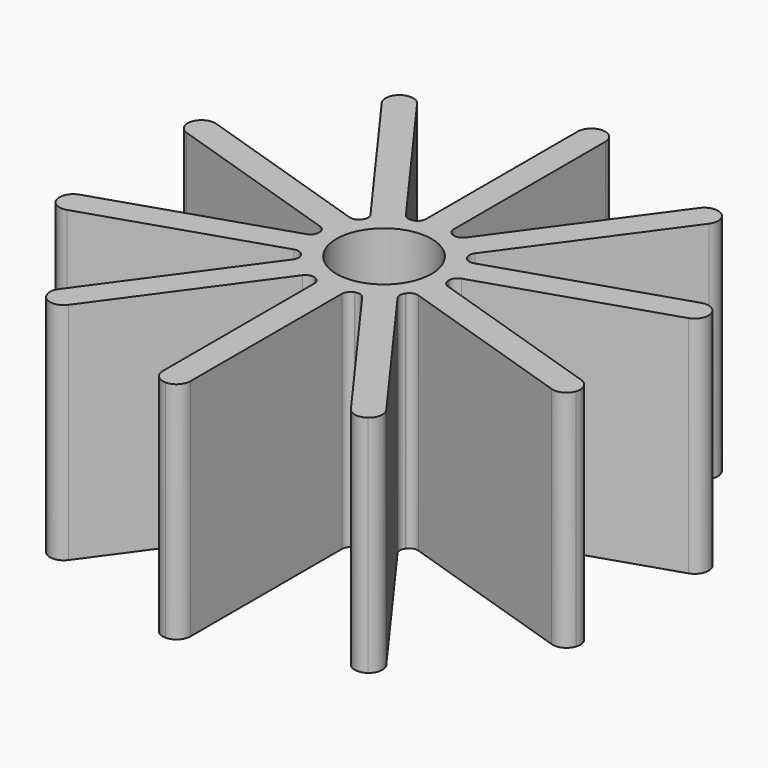
from build123d import *

# Parameters (mm, degrees)
F1_DEPTH = 33.02
F2_R     = 6.985
F3_DEPTH = 33.021
F4_R     = 1.27


with BuildPart() as f1:
    # F0 (on Top) → F1 (new body)
    with BuildSketch(Plane.XY):
        with BuildLine():
            Line((-2.032, 6.2538529475), (0, 3.4570448851))
            Line((0, 3.4570448851), (0, 9.525))
            ThreePointArc((0, 9.525), (-1.0218981804, 9.4700237122), (-2.032, 9.3057294717))
            Line((-2.032, 9.3057294717), (-2.032, 6.2538529475))
        make_face()
        with BuildLine():
            Line((0, 9.525), (0, 3.4570448851))
            Line((0, 3.4570448851), (2.032, 6.2538529475))
            Line((2.032, 6.2538529475), (2.032, 9.3057294717))
            ThreePointArc((2.032, 9.3057294717), (1.0218981804, 9.4700237122), (0, 9.525))
        make_face()
        with BuildLine():
            Line((-5.5986545281, 7.7058868714), (-2.032, 2.7968080624))
            Line((-2.032, 2.7968080624), (-2.032, 6.2538529475))
            Line((-2.032, 6.2538529475), (-3.8258480127, 8.7228729203))
            ThreePointArc((-3.8258480127, 8.7228729203), (-4.7396072824, 8.2620668001), (-5.5986545281, 7.7058868714))
        make_face()
        with BuildLine():
            Line((-5.3198450651, 3.8650936822), (-2.032, 2.7968080624))
            Line((-2.032, 2.7968080624), (-5.5986545281, 7.7058868714))
            ThreePointArc((-5.5986545281, 7.7058868714), (-6.3930732713, 7.0607534405), (-7.1136930778, 6.334113655))
            Line((-7.1136930778, 6.334113655), (-5.3198450651, 3.8650936822))
        make_face()
        with BuildLine():
            Line((-9.0588133177, 2.9433868714), (-3.2878450651, 1.0682856198))
            Line((-3.2878450651, 1.0682856198), (-5.3198450651, 3.8650936822))
            Line((-5.3198450651, 3.8650936822), (-8.2223521203, 4.8081753929))
            ThreePointArc((-8.2223521203, 4.8081753929), (-8.6907438566, 3.8982811877), (-9.0588133177, 2.9433868714))
        make_face()
        with BuildLine():
            Line((-6.5756901303, 0), (-3.2878450651, 1.0682856198))
            Line((-3.2878450651, 1.0682856198), (-9.0588133177, 2.9433868714))
            ThreePointArc((-9.0588133177, 2.9433868714), (-9.3223116652, 1.9545153407), (-9.4781971855, 0.9430817107))
            Line((-9.4781971855, 0.9430817107), (-6.5756901303, 0))
        make_face()
        with BuildLine():
            Line((-9.0588133177, -2.9433868714), (-3.2878450651, -1.0682856198))
            Line((-3.2878450651, -1.0682856198), (-6.5756901303, 0))
            Line((-6.5756901303, 0), (-9.4781971855, -0.9430817107))
            ThreePointArc((-9.4781971855, -0.9430817107), (-9.3223116652, -1.9545153407), (-9.0588133177, -2.9433868714))
        make_face()
        with BuildLine():
            Line((-5.3198450651, -3.8650936822), (-3.2878450651, -1.0682856198))
            Line((-3.2878450651, -1.0682856198), (-9.0588133177, -2.9433868714))
            ThreePointArc((-9.0588133177, -2.9433868714), (-8.6907438566, -3.8982811877), (-8.2223521203, -4.8081753929))
            Line((-8.2223521203, -4.8081753929), (-5.3198450651, -3.8650936822))
        make_face()
        with BuildLine():
            Line((-5.5986545281, -7.7058868714), (-2.032, -2.7968080624))
            Line((-2.032, -2.7968080624), (-5.3198450651, -3.8650936822))
            Line((-5.3198450651, -3.8650936822), (-7.1136930778, -6.334113655))
            ThreePointArc((-7.1136930778, -6.334113655), (-6.3930732713, -7.0607534405), (-5.5986545281, -7.7058868714))
        make_face()
        with BuildLine():
            Line((-2.032, -6.2538529475), (-2.032, -2.7968080624))
            Line((-2.032, -2.7968080624), (-5.5986545281, -7.7058868714))
            ThreePointArc((-5.5986545281, -7.7058868714), (-4.7396072824, -8.2620668001), (-3.8258480127, -8.7228729203))
            Line((-3.8258480127, -8.7228729203), (-2.032, -6.2538529475))
        make_face()
        with BuildLine():
            Line((0, -9.525), (0, -3.4570448851))
            Line((0, -3.4570448851), (-2.032, -6.2538529475))
            Line((-2.032, -6.2538529475), (-2.032, -9.3057294717))
            ThreePointArc((-2.032, -9.3057294717), (-1.0218981804, -9.4700237122), (0, -9.525))
        make_face()
        with BuildLine():
            Line((2.032, -6.2538529475), (0, -3.4570448851))
            Line((0, -3.4570448851), (0, -9.525))
            ThreePointArc((0, -9.525), (1.0218981804, -9.4700237122), (2.032, -9.3057294717))
            Line((2.032, -9.3057294717), (2.032, -6.2538529475))
        make_face()
        with BuildLine():
            Line((5.5986545281, -7.7058868714), (2.032, -2.7968080624))
            Line((2.032, -2.7968080624), (2.032, -6.2538529475))
            Line((2.032, -6.2538529475), (3.8258480127, -8.7228729203))
            ThreePointArc((3.8258480127, -8.7228729203), (4.7396072824, -8.2620668001), (5.5986545281, -7.7058868714))
        make_face()
        with BuildLine():
            Line((5.3198450651, -3.8650936822), (2.032, -2.7968080624))
            Line((2.032, -2.7968080624), (5.5986545281, -7.7058868714))
            ThreePointArc((5.5986545281, -7.7058868714), (6.3930732713, -7.0607534405), (7.1136930778, -6.334113655))
            Line((7.1136930778, -6.334113655), (5.3198450651, -3.8650936822))
        make_face()
        with BuildLine():
            Line((9.0588133177, -2.9433868714), (3.2878450651, -1.0682856198))
            Line((3.2878450651, -1.0682856198), (5.3198450651, -3.8650936822))
            Line((5.3198450651, -3.8650936822), (8.2223521203, -4.8081753929))
            ThreePointArc((8.2223521203, -4.8081753929), (8.6907438566, -3.8982811877), (9.0588133177, -2.9433868714))
        make_face()
        with BuildLine():
            Line((6.5756901303, 0), (3.2878450651, -1.0682856198))
            Line((3.2878450651, -1.0682856198), (9.0588133177, -2.9433868714))
            ThreePointArc((9.0588133177, -2.9433868714), (9.3223116652, -1.9545153407), (9.4781971855, -0.9430817107))
            Line((9.4781971855, -0.9430817107), (6.5756901303, 0))
        make_face()
        with BuildLine():
            Line((9.0588133177, 2.9433868714), (3.2878450651, 1.0682856198))
            Line((3.2878450651, 1.0682856198), (6.5756901303, 0))
            Line((6.5756901303, 0), (9.4781971855, 0.9430817107))
            ThreePointArc((9.4781971855, 0.9430817107), (9.3223116652, 1.9545153407), (9.0588133177, 2.9433868714))
        make_face()
        with BuildLine():
            Line((5.3198450651, 3.8650936822), (3.2878450651, 1.0682856198))
            Line((3.2878450651, 1.0682856198), (9.0588133177, 2.9433868714))
            ThreePointArc((9.0588133177, 2.9433868714), (8.6907438566, 3.8982811877), (8.2223521203, 4.8081753929))
            Line((8.2223521203, 4.8081753929), (5.3198450651, 3.8650936822))
        make_face()
        with BuildLine():
            Line((5.5986545281, 7.7058868714), (2.032, 2.7968080624))
            Line((2.032, 2.7968080624), (5.3198450651, 3.8650936822))
            Line((5.3198450651, 3.8650936822), (7.1136930778, 6.334113655))
            ThreePointArc((7.1136930778, 6.334113655), (6.3930732713, 7.0607534405), (5.5986545281, 7.7058868714))
        make_face()
        with BuildLine():
            Line((2.032, 6.2538529475), (2.032, 2.7968080624))
            Line((2.032, 2.7968080624), (5.5986545281, 7.7058868714))
            ThreePointArc((5.5986545281, 7.7058868714), (4.7396072824, 8.2620668001), (3.8258480127, 8.7228729203))
            Line((3.8258480127, 8.7228729203), (2.032, 6.2538529475))
        make_face()
        with BuildLine():
            ThreePointArc((-2.032, 9.3057294717), (-1.0218981804, 9.4700237122), (0, 9.525))
            Line((0, 9.525), (0, 40.132))
            ThreePointArc((0, 40.132), (-1.4368409794, 39.5368409794), (-2.032, 38.1))
            Line((-2.032, 38.1), (-2.032, 9.3057294717))
        make_face()
        with BuildLine():
            Line((0, 40.132), (0, 9.525))
            ThreePointArc((0, 9.525), (1.0218981804, 9.4700237122), (2.032, 9.3057294717))
            Line((2.032, 9.3057294717), (2.032, 38.1))
            ThreePointArc((2.032, 38.1), (1.4368409794, 39.5368409794), (0, 40.132))
        make_face()
        with BuildLine():
            Line((-3.8258480127, 8.7228729203), (-2.032, 6.2538529475))
            Line((-2.032, 6.2538529475), (-2.032, 9.3057294717))
            ThreePointArc((-2.032, 9.3057294717), (-2.9433868714, 9.0588133177), (-3.8258480127, 8.7228729203))
        make_face()
        with BuildLine():
            Line((2.032, 9.3057294717), (2.032, 6.2538529475))
            Line((2.032, 6.2538529475), (3.8258480127, 8.7228729203))
            ThreePointArc((3.8258480127, 8.7228729203), (2.9433868714, 9.0588133177), (2.032, 9.3057294717))
        make_face()
        with BuildLine():
            ThreePointArc((-7.1136930778, 6.334113655), (-6.3930732713, 7.0607534405), (-5.5986545281, 7.7058868714))
            Line((-5.5986545281, 7.7058868714), (-23.588997745, 32.4674700183))
            ThreePointArc((-23.588997745, 32.4674700183), (-24.4016008204, 31.1414223186), (-24.0385406449, 29.629167853))
            Line((-24.0385406449, 29.629167853), (-7.1136930778, 6.334113655))
        make_face()
        with BuildLine():
            Line((-23.588997745, 32.4674700183), (-5.5986545281, 7.7058868714))
            ThreePointArc((-5.5986545281, 7.7058868714), (-4.7396072824, 8.2620668001), (-3.8258480127, 8.7228729203))
            Line((-3.8258480127, 8.7228729203), (-20.7506955798, 32.0179271183))
            ThreePointArc((-20.7506955798, 32.0179271183), (-22.0767432794, 32.8305301938), (-23.588997745, 32.4674700183))
        make_face()
        with BuildLine():
            Line((-8.2223521203, 4.8081753929), (-5.3198450651, 3.8650936822))
            Line((-5.3198450651, 3.8650936822), (-7.1136930778, 6.334113655))
            ThreePointArc((-7.1136930778, 6.334113655), (-7.7058868714, 5.5986545281), (-8.2223521203, 4.8081753929))
        make_face()
        with BuildLine():
            ThreePointArc((-9.4781971855, 0.9430817107), (-9.3223116652, 1.9545153407), (-9.0588133177, 2.9433868714))
            Line((-9.0588133177, 2.9433868714), (-38.167800112, 12.4014700183))
            ThreePointArc((-38.167800112, 12.4014700183), (-38.045778528, 10.8510387902), (-36.8631758034, 9.8410006446))
            Line((-36.8631758034, 9.8410006446), (-9.4781971855, 0.9430817107))
        make_face()
        with BuildLine():
            Line((-38.167800112, 12.4014700183), (-9.0588133177, 2.9433868714))
            ThreePointArc((-9.0588133177, 2.9433868714), (-8.6907438566, 3.8982811877), (-8.2223521203, 4.8081753929))
            Line((-8.2223521203, 4.8081753929), (-35.6073307383, 13.7060943268))
            ThreePointArc((-35.6073307383, 13.7060943268), (-37.1577619663, 13.5840727428), (-38.167800112, 12.4014700183))
        make_face()
        with BuildLine():
            Line((-9.4781971855, -0.9430817107), (-6.5756901303, 0))
            Line((-6.5756901303, 0), (-9.4781971855, 0.9430817107))
            ThreePointArc((-9.4781971855, 0.9430817107), (-9.525, 0), (-9.4781971855, -0.9430817107))
        make_face()
        with BuildLine():
            ThreePointArc((-8.2223521203, -4.8081753929), (-8.6907438566, -3.8982811877), (-9.0588133177, -2.9433868714))
            Line((-9.0588133177, -2.9433868714), (-38.167800112, -12.4014700183))
            ThreePointArc((-38.167800112, -12.4014700183), (-37.1577619663, -13.5840727428), (-35.6073307383, -13.7060943268))
            Line((-35.6073307383, -13.7060943268), (-8.2223521203, -4.8081753929))
        make_face()
        with BuildLine():
            Line((-38.167800112, -12.4014700183), (-9.0588133177, -2.9433868714))
            ThreePointArc((-9.0588133177, -2.9433868714), (-9.3223116652, -1.9545153407), (-9.4781971855, -0.9430817107))
            Line((-9.4781971855, -0.9430817107), (-36.8631758034, -9.8410006446))
            ThreePointArc((-36.8631758034, -9.8410006446), (-38.045778528, -10.8510387902), (-38.167800112, -12.4014700183))
        make_face()
        with BuildLine():
            Line((-7.1136930778, -6.334113655), (-5.3198450651, -3.8650936822))
            Line((-5.3198450651, -3.8650936822), (-8.2223521203, -4.8081753929))
            ThreePointArc((-8.2223521203, -4.8081753929), (-7.7058868714, -5.5986545281), (-7.1136930778, -6.334113655))
        make_face()
        with BuildLine():
            ThreePointArc((-3.8258480127, -8.7228729203), (-4.7396072824, -8.2620668001), (-5.5986545281, -7.7058868714))
            Line((-5.5986545281, -7.7058868714), (-23.588997745, -32.4674700183))
            ThreePointArc((-23.588997745, -32.4674700183), (-22.0767432794, -32.8305301938), (-20.7506955798, -32.0179271183))
            Line((-20.7506955798, -32.0179271183), (-3.8258480127, -8.7228729203))
        make_face()
        with BuildLine():
            Line((-23.588997745, -32.4674700183), (-5.5986545281, -7.7058868714))
            ThreePointArc((-5.5986545281, -7.7058868714), (-6.3930732713, -7.0607534405), (-7.1136930778, -6.334113655))
            Line((-7.1136930778, -6.334113655), (-24.0385406449, -29.629167853))
            ThreePointArc((-24.0385406449, -29.629167853), (-24.4016008204, -31.1414223186), (-23.588997745, -32.4674700183))
        make_face()
        with BuildLine():
            Line((-2.032, -9.3057294717), (-2.032, -6.2538529475))
            Line((-2.032, -6.2538529475), (-3.8258480127, -8.7228729203))
            ThreePointArc((-3.8258480127, -8.7228729203), (-2.9433868714, -9.0588133177), (-2.032, -9.3057294717))
        make_face()
        with BuildLine():
            ThreePointArc((2.032, -9.3057294717), (1.0218981804, -9.4700237122), (0, -9.525))
            Line((0, -9.525), (0, -40.132))
            ThreePointArc((0, -40.132), (1.4368409794, -39.5368409794), (2.032, -38.1))
            Line((2.032, -38.1), (2.032, -9.3057294717))
        make_face()
        with BuildLine():
            Line((0, -40.132), (0, -9.525))
            ThreePointArc((0, -9.525), (-1.0218981804, -9.4700237122), (-2.032, -9.3057294717))
            Line((-2.032, -9.3057294717), (-2.032, -38.1))
            ThreePointArc((-2.032, -38.1), (-1.4368409794, -39.5368409794), (0, -40.132))
        make_face()
        with BuildLine():
            Line((3.8258480127, -8.7228729203), (2.032, -6.2538529475))
            Line((2.032, -6.2538529475), (2.032, -9.3057294717))
            ThreePointArc((2.032, -9.3057294717), (2.9433868714, -9.0588133177), (3.8258480127, -8.7228729203))
        make_face()
        with BuildLine():
            ThreePointArc((7.1136930778, -6.334113655), (6.3930732713, -7.0607534405), (5.5986545281, -7.7058868714))
            Line((5.5986545281, -7.7058868714), (23.588997745, -32.4674700183))
            ThreePointArc((23.588997745, -32.4674700183), (24.4016008204, -31.1414223186), (24.0385406449, -29.629167853))
            Line((24.0385406449, -29.629167853), (7.1136930778, -6.334113655))
        make_face()
        with BuildLine():
            Line((23.588997745, -32.4674700183), (5.5986545281, -7.7058868714))
            ThreePointArc((5.5986545281, -7.7058868714), (4.7396072824, -8.2620668001), (3.8258480127, -8.7228729203))
            Line((3.8258480127, -8.7228729203), (20.7506955798, -32.0179271183))
            ThreePointArc((20.7506955798, -32.0179271183), (22.0767432794, -32.8305301938), (23.588997745, -32.4674700183))
        make_face()
        with BuildLine():
            Line((8.2223521203, -4.8081753929), (5.3198450651, -3.8650936822))
            Line((5.3198450651, -3.8650936822), (7.1136930778, -6.334113655))
            ThreePointArc((7.1136930778, -6.334113655), (7.7058868714, -5.5986545281), (8.2223521203, -4.8081753929))
        make_face()
        with BuildLine():
            ThreePointArc((9.4781971855, -0.9430817107), (9.3223116652, -1.9545153407), (9.0588133177, -2.9433868714))
            Line((9.0588133177, -2.9433868714), (38.167800112, -12.4014700183))
            ThreePointArc((38.167800112, -12.4014700183), (38.045778528, -10.8510387902), (36.8631758034, -9.8410006446))
            Line((36.8631758034, -9.8410006446), (9.4781971855, -0.9430817107))
        make_face()
        with BuildLine():
            Line((38.167800112, -12.4014700183), (9.0588133177, -2.9433868714))
            ThreePointArc((9.0588133177, -2.9433868714), (8.6907438566, -3.8982811877), (8.2223521203, -4.8081753929))
            Line((8.2223521203, -4.8081753929), (35.6073307383, -13.7060943268))
            ThreePointArc((35.6073307383, -13.7060943268), (37.1577619663, -13.5840727428), (38.167800112, -12.4014700183))
        make_face()
        with BuildLine():
            Line((9.4781971855, 0.9430817107), (6.5756901303, 0))
            Line((6.5756901303, 0), (9.4781971855, -0.9430817107))
            ThreePointArc((9.4781971855, -0.9430817107), (9.5132921008, -0.4721211753), (9.525, 0))
            ThreePointArc((9.525, 0), (9.5132921008, 0.4721211753), (9.4781971855, 0.9430817107))
        make_face()
        with BuildLine():
            ThreePointArc((8.2223521203, 4.8081753929), (8.6907438566, 3.8982811877), (9.0588133177, 2.9433868714))
            Line((9.0588133177, 2.9433868714), (38.167800112, 12.4014700183))
            ThreePointArc((38.167800112, 12.4014700183), (37.1577619663, 13.5840727428), (35.6073307383, 13.7060943268))
            Line((35.6073307383, 13.7060943268), (8.2223521203, 4.8081753929))
        make_face()
        with BuildLine():
            Line((38.167800112, 12.4014700183), (9.0588133177, 2.9433868714))
            ThreePointArc((9.0588133177, 2.9433868714), (9.3223116652, 1.9545153407), (9.4781971855, 0.9430817107))
            Line((9.4781971855, 0.9430817107), (36.8631758034, 9.8410006446))
            ThreePointArc((36.8631758034, 9.8410006446), (38.045778528, 10.8510387902), (38.167800112, 12.4014700183))
        make_face()
        with BuildLine():
            Line((7.1136930778, 6.334113655), (5.3198450651, 3.8650936822))
            Line((5.3198450651, 3.8650936822), (8.2223521203, 4.8081753929))
            ThreePointArc((8.2223521203, 4.8081753929), (7.7058868714, 5.5986545281), (7.1136930778, 6.334113655))
        make_face()
        with BuildLine():
            ThreePointArc((3.8258480127, 8.7228729203), (4.7396072824, 8.2620668001), (5.5986545281, 7.7058868714))
            Line((5.5986545281, 7.7058868714), (23.588997745, 32.4674700183))
            ThreePointArc((23.588997745, 32.4674700183), (22.0767432794, 32.8305301938), (20.7506955798, 32.0179271183))
            Line((20.7506955798, 32.0179271183), (3.8258480127, 8.7228729203))
        make_face()
        with BuildLine():
            Line((23.588997745, 32.4674700183), (5.5986545281, 7.7058868714))
            ThreePointArc((5.5986545281, 7.7058868714), (6.3930732713, 7.0607534405), (7.1136930778, 6.334113655))
            Line((7.1136930778, 6.334113655), (24.0385406449, 29.629167853))
            ThreePointArc((24.0385406449, 29.629167853), (24.4016008204, 31.1414223186), (23.588997745, 32.4674700183))
        make_face()
    extrude(amount=F1_DEPTH)

    # F2 (on face) → F3 (cut, through all)
    with BuildSketch(Plane.XY.offset(33.02)):
        Circle(F2_R)
    extrude(amount=-F3_DEPTH, mode=Mode.SUBTRACT)

    # F4
    f4_edges = [f1.edges().sort_by_distance(p)[0] for p in [
        (8.222352, -4.808175, 16.51),
        (7.113693, -6.334114, 16.51),
        (3.825848, -8.722873, 16.51),
        (2.032, -9.305729, 16.51),
        (-2.032, -9.305729, 16.51),
        (-3.825848, -8.722873, 16.51),
        (-7.113693, -6.334114, 16.51),
        (-8.222352, -4.808175, 16.51),
        (-9.478197, -0.943082, 16.51),
        (-9.478197, 0.943082, 16.51),
        (-8.222352, 4.808175, 16.51),
        (-7.113693, 6.334114, 16.51),
        (-3.825848, 8.722873, 16.51),
        (-2.032, 9.305729, 16.51),
        (2.032, 9.305729, 16.51),
        (3.825848, 8.722873, 16.51),
        (8.222352, 4.808175, 16.51),
        (7.113693, 6.334114, 16.51),
        (9.478197, -0.943082, 16.51),
        (9.478197, 0.943082, 16.51),
    ]]
    fillet(f4_edges, radius=F4_R)


solid = f1.part
